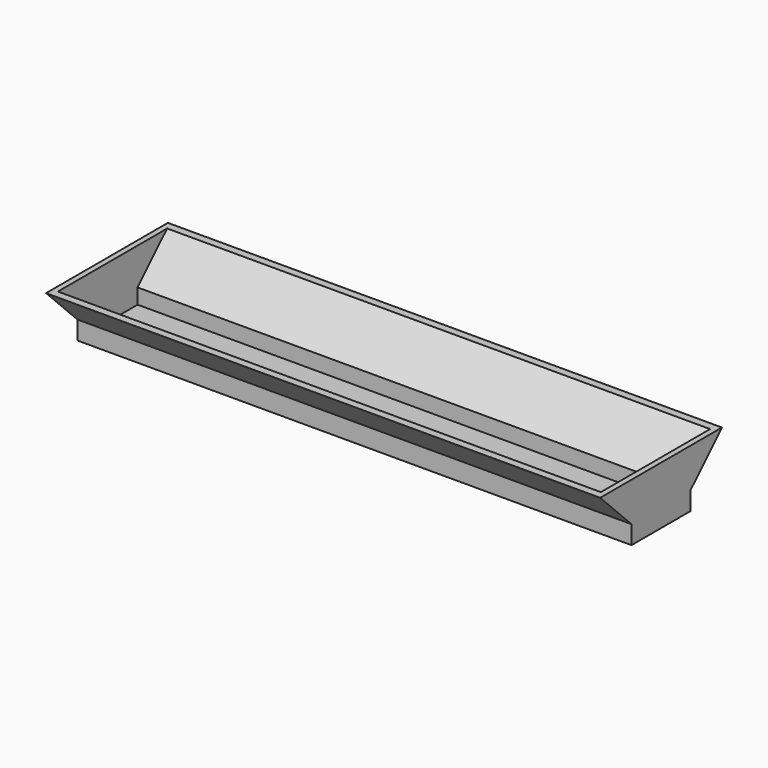
from build123d import *

# Parameters (mm, degrees)
F1_DEPTH = 75
F2_T     = -1.5


with BuildPart() as f1:
    # F0 (on Right) → F1 (new body, symmetric)
    with BuildSketch(Plane.YZ):
        Polygon((-10.2440752586, 5), (-10.2440752586, 0), (9.7559247414, 0), (9.7559247414, 5), (20.3625264592, 15.6066017178), (-20.8506769764, 15.6066017178), align=None)
    extrude(amount=F1_DEPTH, both=True)

    # F2
    f2_openings = [f1.faces().sort_by_distance(p)[0] for p in [
        (0, -0.244075, 15.606602),
    ]]
    offset(amount=F2_T, openings=f2_openings, kind=Kind.INTERSECTION)


solid = f1.part
